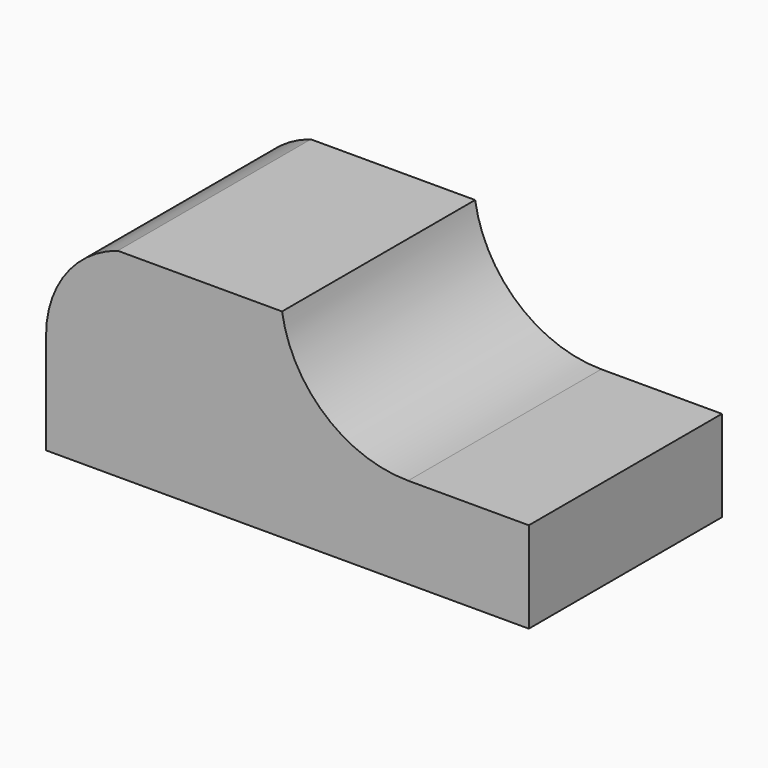
from build123d import *

# Parameters (mm, degrees)
F1_DEPTH = 25.4
F3_DEPTH = 25.4


with BuildPart() as f1:
    # F0 (on Front) → F1 (new body)
    with BuildSketch(Plane.XZ):
        with BuildLine():
            Line((-56.592982, 10.47193), (-56.592982, 0))
            Line((-56.592982, 0), (-5.792982, 0))
            Line((-5.792982, 0), (-5.792982, 9.580702))
            Line((-5.792982, 9.580702), (-18.492982, 9.580702))
            ThreePointArc((-18.492982, 9.580702), (-27.683477, 12.761842), (-32.940801, 20.943859))
            Line((-32.940801, 20.943859), (-50.7854, 20.943859))
            ThreePointArc((-50.7854, 20.943859), (-55.017084, 16.562817), (-56.592982, 10.679176))
            Line((-56.592982, 10.679176), (-56.592982, 10.47193))
        make_face()
        with BuildLine():
            ThreePointArc((-56.592982, 10.679176), (-56.593423, 10.575553), (-56.592982, 10.47193))
            Line((-56.592982, 10.47193), (-56.592982, 10.679176))
        make_face()
        with BuildLine():
            Line((-56.592982, 20.943859), (-56.592982, 10.679176))
            ThreePointArc((-56.592982, 10.679176), (-55.017084, 16.562817), (-50.7854, 20.943859))
            Line((-50.7854, 20.943859), (-56.592982, 20.943859))
        make_face()
        with BuildLine():
            ThreePointArc((-32.940801, 20.943859), (-27.683477, 12.761842), (-18.492982, 9.580702))
            Line((-18.492982, 9.580702), (-18.492982, 20.943859))
            Line((-18.492982, 20.943859), (-32.940801, 20.943859))
        make_face()
    extrude(amount=F1_DEPTH)

    # F2 (on face) → F3 (cut)
    with BuildSketch(Plane.XZ.offset(25.4)):
        with BuildLine():
            ThreePointArc((-56.592982, 10.679176), (-54.5049, 17.047845), (-49.051359, 20.943859))
            Line((-49.051359, 20.943859), (-56.592982, 20.943859))
            Line((-56.592982, 20.943859), (-56.592982, 10.679176))
        make_face()
        with BuildLine():
            Line((-18.492982, 20.943859), (-31.762764, 20.943859))
            ThreePointArc((-31.762764, 20.943859), (-27.22809, 12.809668), (-18.492982, 9.580702))
            Line((-18.492982, 9.580702), (-18.492982, 20.943859))
        make_face()
    extrude(amount=-F3_DEPTH, mode=Mode.SUBTRACT)


solid = f1.part
